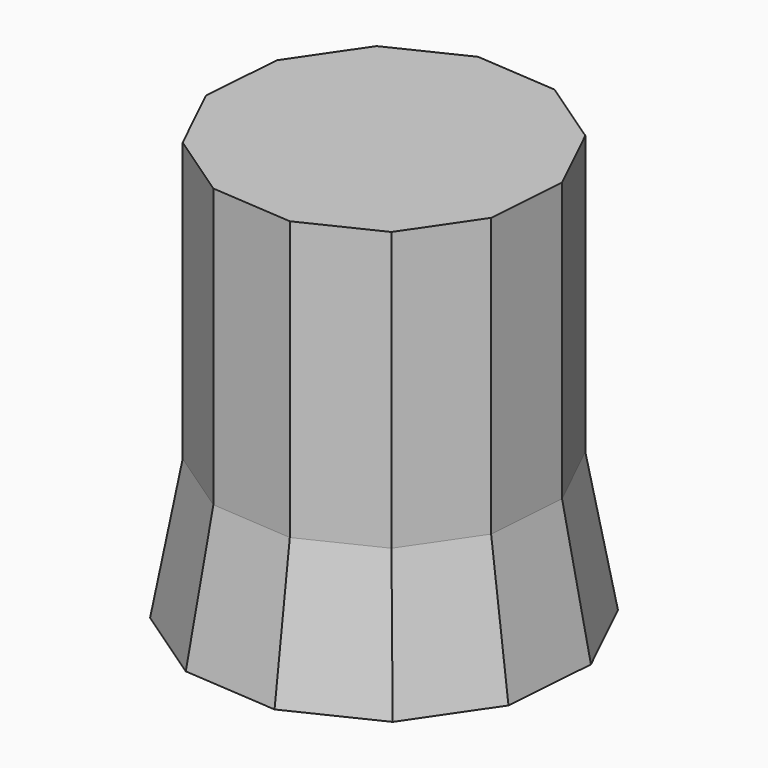
from build123d import *

# Parameters (mm, degrees)
F1_DEPTH = 35.4
F1_TAPER = 10
F2_DEPTH = 70.6


with BuildPart() as f1:
    # F0 (on Top) → F1 (new body)
    with BuildSketch(Plane.XY):
        Polygon((-30.2752009353, 35.0943834731), (-43.7662848512, 15.2550271502), (-45.5302280855, -8.6719013781), (-35.0943834731, -30.2752009353), (-15.2550271502, -43.7662848512), (8.6719013781, -45.5302280855), (30.2752009353, -35.0943834731), (43.7662848512, -15.2550271502), (45.5302280855, 8.6719013781), (35.0943834731, 30.2752009353), (15.2550271502, 43.7662848512), (-8.6719013781, 45.5302280855), align=None)
    extrude(amount=F1_DEPTH, taper=F1_TAPER)

    # F2 (add): a face of the model
    f2_faces = [f1.faces().sort_by_distance(p)[0] for p in [
        (0, 0, 35.4),
    ]]
    extrude(f2_faces, amount=F2_DEPTH)


solid = f1.part
